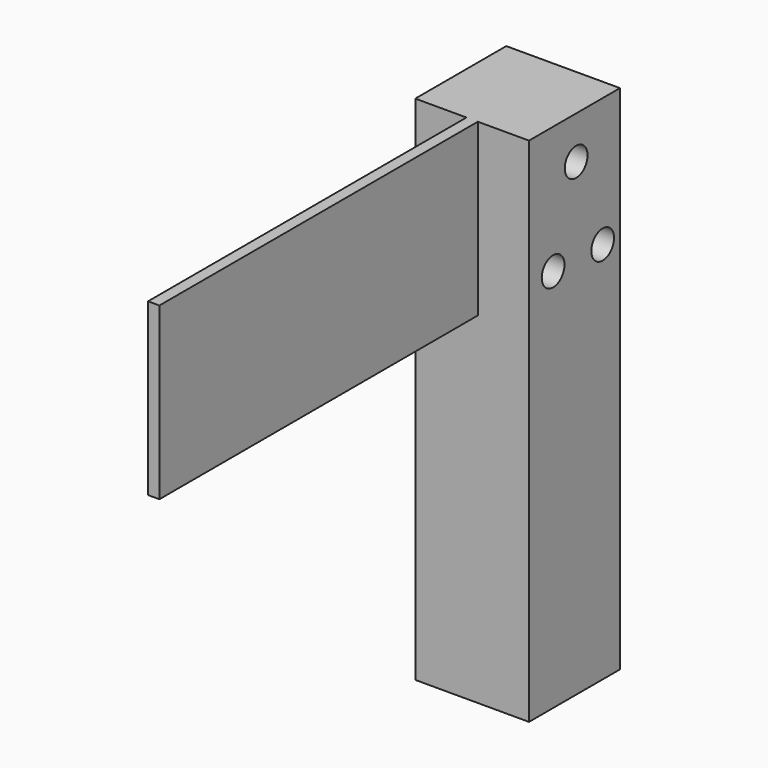
from build123d import *

# Parameters (mm, degrees)
F1_DEPTH = 20
F2_W     = 2
F2_H     = 30
F3_DEPTH = 90
F4_R     = 2.5
F5_DEPTH = 25


with BuildPart() as f1:
    # F0 (on Front) → F1 (new body)
    with BuildSketch(Plane.XZ):
        Polygon((0, 90), (0, 0), (20, 0), (20, 90), (11, 90), (11, 60), (9, 60), (9, 90), align=None)
    extrude(amount=F1_DEPTH)

    # F2 (on face) → F3 (join)
    with BuildSketch(Plane(origin=(0, 0, 0), x_dir=(-1, 0, 0), z_dir=(0, 1, 0))):
        with Locations((-10, 75)):
            Rectangle(F2_W, F2_H)
    extrude(amount=-F3_DEPTH)

    # F4 (on face) → F5 (cut)
    with BuildSketch(Plane(origin=(0, 0, 0), x_dir=(0, -1, 0), z_dir=(-1, 0, 0))):
        with Locations((9.6371909603, 82.499884069)):
            Circle(F4_R)
        with Locations((3.8047288544, 67.3352107406)):
            Circle(F4_R)
        with Locations((14.7008737549, 67.6194578409)):
            Circle(F4_R)
    extrude(amount=-F5_DEPTH, mode=Mode.SUBTRACT)


solid = f1.part
